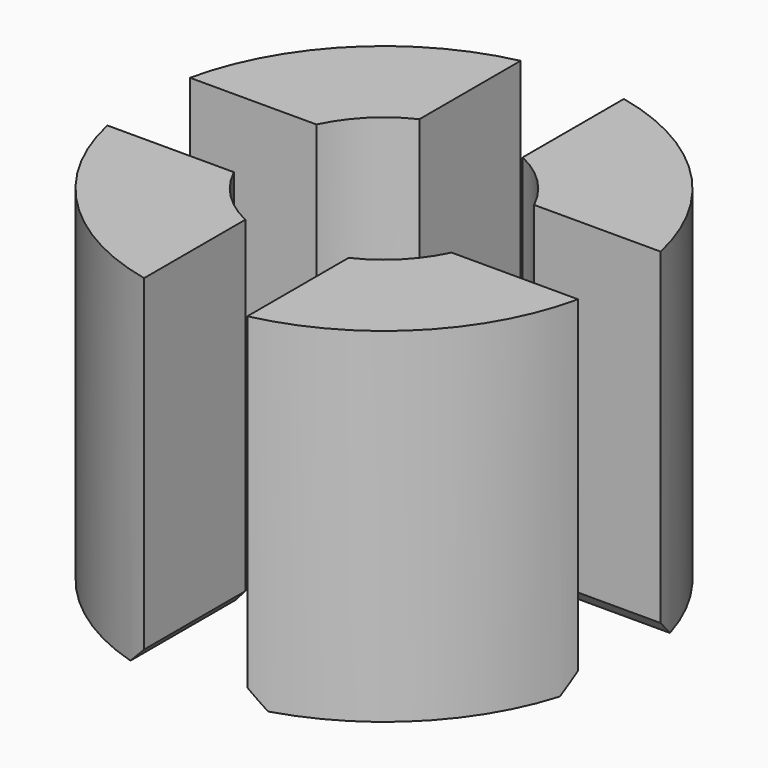
from build123d import *

# Parameters (mm, degrees)
BOX027_W        = 10
BOX027_H        = 3
BOX027_DEPTH    = 10
BOX026_W        = 10
BOX026_H        = 3
BOX026_DEPTH    = 10
BOX025_W        = 10
BOX025_H        = 3
BOX025_DEPTH    = 10
BOX024_W        = 10
BOX024_H        = 3
BOX024_DEPTH    = 10
TUBE003_R       = 7
TUBE003_R_2     = 3.5
TUBE003_DEPTH   = 10
CHAMFER002_SIZE = 0.5


with BuildPart() as krychle027:
    # Box027 → Box027 (new body)
    with BuildSketch(Plane(origin=(1.5, 0, -1), x_dir=(0, 1, 0), z_dir=(0, 0, 1))):
        with Locations((5, 1.5)):
            Rectangle(BOX027_W, BOX027_H)
    extrude(amount=BOX027_DEPTH)


with BuildPart() as krychle026:
    # Box026 → Box026 (new body)
    with BuildSketch(Plane(origin=(0, 1.5, -1), x_dir=(-1, 0, 0), z_dir=(0, 0, 1))):
        with Locations((5, 1.5)):
            Rectangle(BOX026_W, BOX026_H)
    extrude(amount=BOX026_DEPTH)


with BuildPart() as krychle025:
    # Box025 → Box025 (new body)
    with BuildSketch(Plane(origin=(-1.5, 0, -1), x_dir=(0, -1, 0), z_dir=(0, 0, 1))):
        with Locations((5, 1.5)):
            Rectangle(BOX025_W, BOX025_H)
    extrude(amount=BOX025_DEPTH)


with BuildPart() as compound020:
    # Box024 → Box024 (new body)
    with BuildSketch(Plane(origin=(0, -1.5, -1), x_dir=(1, 0, 0), z_dir=(0, 0, 1))):
        with Locations((5, 1.5)):
            Rectangle(BOX024_W, BOX024_H)
    extrude(amount=BOX024_DEPTH)

    # Compound020: union Krychle027, Krychle026, Krychle025
    add(krychle027.part)
    add(krychle026.part)
    add(krychle025.part)


with BuildPart() as chamfer002:
    # Tube003 → Tube003 (new body)
    with BuildSketch(Plane.XY.offset(-1)):
        Circle(TUBE003_R)
        Circle(TUBE003_R_2, mode=Mode.SUBTRACT)
    extrude(amount=TUBE003_DEPTH)

    # Cut003: cut Compound020
    add(compound020.part, mode=Mode.SUBTRACT)

    # Chamfer002
    chamfer002_edges = [chamfer002.edges().sort_by_distance(p)[0] for p in [
        (4.999837, -1.5, -1),
        (1.5, -4.999837, -1),
        (1.5, 4.999837, -1),
        (4.999837, 1.5, -1),
        (-1.5, -4.999837, -1),
        (-4.999837, -1.5, -1),
        (-4.999837, 1.5, -1),
        (-1.5, 4.999837, -1),
    ]]
    chamfer(chamfer002_edges, length=CHAMFER002_SIZE)


with BuildPart() as chamfer002_1:
    # Chamfer002 placement: moved
    add(chamfer002.part.moved(Location((0, 0, 3))))


solid = chamfer002_1.part
